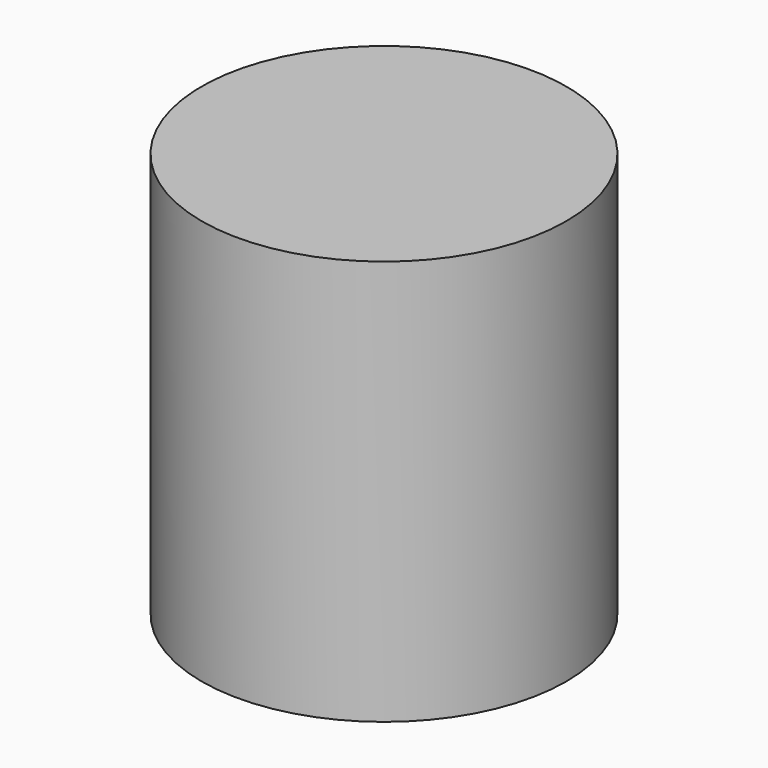
from build123d import *

# Parameters (mm, degrees)
F0_R     = 9
F0_W     = 4
F0_H     = 4
F1_DEPTH = 20


with BuildPart() as f1:
    # F0 (on Top) → F1 (new body)
    with BuildSketch(Plane.XY):
        Circle(F0_R)
        Rectangle(F0_W, F0_H, mode=Mode.SUBTRACT)
        Rectangle(F0_W, F0_H)
    extrude(amount=F1_DEPTH)


solid = f1.part
